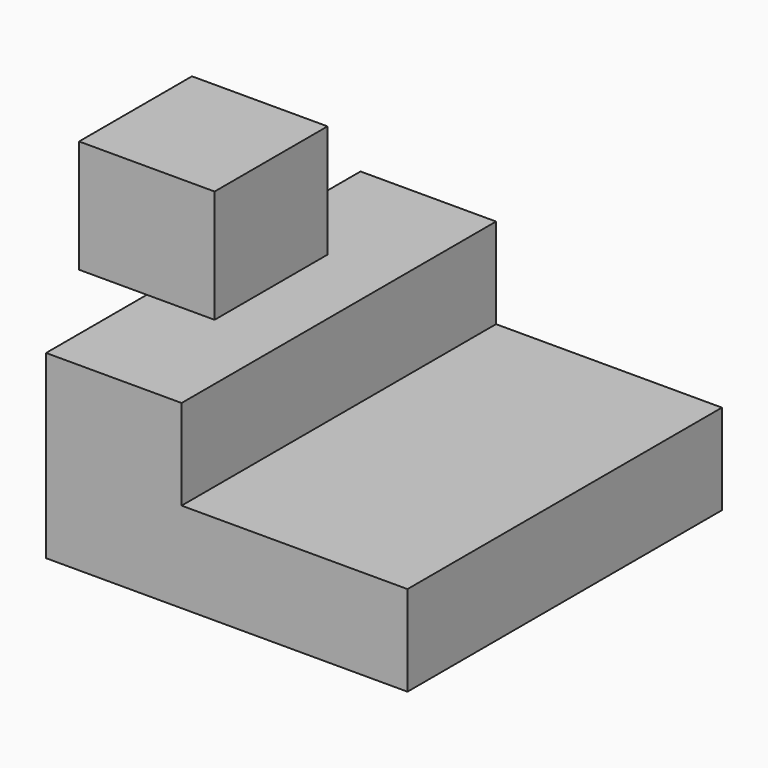
from build123d import *

# Parameters (mm, degrees)
F1_DEPTH = 87
F3_W     = 30
F3_H     = 31.242104
F4_DEPTH = 25


with BuildPart() as f1:
    # F0 (on Front) → F1 (new body)
    with BuildSketch(Plane.XZ):
        Polygon((30, 40), (0, 40), (0, 0), (80, 0), (80, 20), (30, 20), align=None)
    extrude(amount=-F1_DEPTH)

    # F3 (on face) → F4 (join)
    with BuildSketch(Plane.XY.offset(40)):
        with Locations((0, 43.5)):
            Rectangle(F3_W, F3_H)
    extrude(amount=F4_DEPTH)


solid = f1.part
